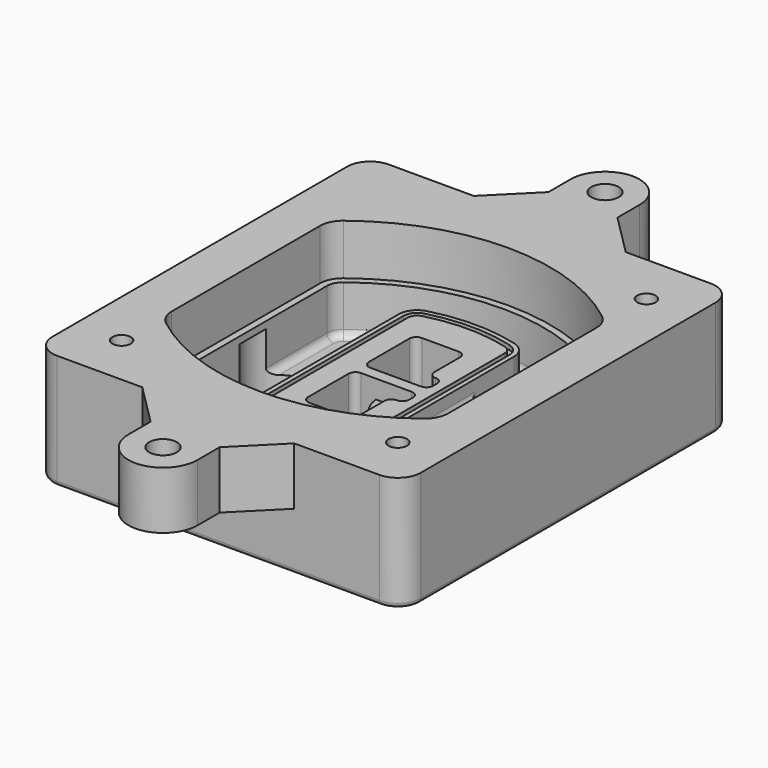
from build123d import *

# Parameters (mm, degrees)
F0_R      = 4
F1_DEPTH  = 25
F2_DEPTH  = 3
F3_DEPTH  = 18
F5_DEPTH  = 21
F6_DEPTH  = 2
F8_DEPTH  = 20
F9_DEPTH  = 16
F10_DEPTH = 25
F7_R      = 6
F7_R_2    = 4
F11_DEPTH = 6
F12_R     = 3
F13_R     = 2
F14_R     = 4
F14_R_2   = 6
F15_DEPTH = 25


with BuildPart() as f1:
    # F0 (on Top) → F1 (new body)
    with BuildSketch(Plane.XY):
        with BuildLine():
            ThreePointArc((-80, -80), (-77.0710678119, -87.0710678119), (-70, -90))
            Line((-70, -90), (70, -90))
            ThreePointArc((70, -90), (77.0710678119, -87.0710678119), (80, -80))
            Line((80, -80), (80, 80))
            ThreePointArc((80, 80), (77.0710678119, 87.0710678119), (70, 90))
            Line((70, 90), (-70, 90))
            ThreePointArc((-70, 90), (-77.0710678119, 87.0710678119), (-80, 80))
            Line((-80, 80), (-80, -80))
        make_face()
        with Locations((-60, -67.5)):
            Circle(F0_R, mode=Mode.SUBTRACT)
        with Locations((60, -67.5)):
            Circle(F0_R, mode=Mode.SUBTRACT)
        with Locations((-60, 67.5)):
            Circle(F0_R, mode=Mode.SUBTRACT)
        with BuildLine():
            ThreePointArc((-64, 40.2934422872), (-62.5820384798, 46.4328484224), (-58.6153846154, 51.3286200352))
            ThreePointArc((-58.6153846154, 51.3286200352), (0, 71.5), (58.6153846154, 51.3286200352))
            ThreePointArc((58.6153846154, 51.3286200352), (62.5820384798, 46.4328484224), (64, 40.2934422872))
            Line((64, 40.2934422872), (64, -40.2934422872))
            ThreePointArc((64, -40.2934422872), (62.5820384798, -46.4328484224), (58.6153846154, -51.3286200352))
            ThreePointArc((58.6153846154, -51.3286200352), (0, -71.5), (-58.6153846154, -51.3286200352))
            ThreePointArc((-58.6153846154, -51.3286200352), (-62.5820384798, -46.4328484224), (-64, -40.2934422872))
            Line((-64, -40.2934422872), (-64, 40.2934422872))
        make_face(mode=Mode.SUBTRACT)
        with Locations((60, 67.5)):
            Circle(F0_R, mode=Mode.SUBTRACT)
        with BuildLine():
            ThreePointArc((58.6153846154, 51.3286200352), (0, 71.5), (-58.6153846154, 51.3286200352))
            ThreePointArc((-58.6153846154, 51.3286200352), (-62.5820384798, 46.4328484224), (-64, 40.2934422872))
            Line((-64, 40.2934422872), (-64, -40.2934422872))
            ThreePointArc((-64, -40.2934422872), (-62.5820384798, -46.4328484224), (-58.6153846154, -51.3286200352))
            ThreePointArc((-58.6153846154, -51.3286200352), (0, -71.5), (58.6153846154, -51.3286200352))
            ThreePointArc((58.6153846154, -51.3286200352), (62.5820384798, -46.4328484224), (64, -40.2934422872))
            Line((64, -40.2934422872), (64, 40.2934422872))
            ThreePointArc((64, 40.2934422872), (62.5820384798, 46.4328484224), (58.6153846154, 51.3286200352))
        make_face()
        with BuildLine():
            Line((-60, -40.2934422872), (-60, 40.2934422872))
            ThreePointArc((-60, 40.2934422872), (-58.9871703427, 44.6787323838), (-56.1538461538, 48.1757121072))
            ThreePointArc((-56.1538461538, 48.1757121072), (0, 67.5), (56.1538461538, 48.1757121072))
            ThreePointArc((56.1538461538, 48.1757121072), (58.9871703427, 44.6787323838), (60, 40.2934422872))
            Line((60, 40.2934422872), (60, -40.2934422872))
            ThreePointArc((60, -40.2934422872), (58.9871703427, -44.6787323838), (56.1538461538, -48.1757121072))
            ThreePointArc((56.1538461538, -48.1757121072), (0, -67.5), (-56.1538461538, -48.1757121072))
            ThreePointArc((-56.1538461538, -48.1757121072), (-58.9871703427, -44.6787323838), (-60, -40.2934422872))
        make_face(mode=Mode.SUBTRACT)
        with BuildLine():
            ThreePointArc((-56.1538461538, 48.1757121072), (-58.9871703427, 44.6787323838), (-60, 40.2934422872))
            Line((-60, 40.2934422872), (-60, -40.2934422872))
            ThreePointArc((-60, -40.2934422872), (-58.9871703427, -44.6787323838), (-56.1538461538, -48.1757121072))
            ThreePointArc((-56.1538461538, -48.1757121072), (0, -67.5), (56.1538461538, -48.1757121072))
            ThreePointArc((56.1538461538, -48.1757121072), (58.9871703427, -44.6787323838), (60, -40.2934422872))
            Line((60, -40.2934422872), (60, 40.2934422872))
            ThreePointArc((60, 40.2934422872), (58.9871703427, 44.6787323838), (56.1538461538, 48.1757121072))
            ThreePointArc((56.1538461538, 48.1757121072), (0, 67.5), (-56.1538461538, 48.1757121072))
        make_face()
        with BuildLine():
            ThreePointArc((54.3076923077, 45.8110311612), (56.2910192399, 43.3631453548), (57, 40.2934422872))
            Line((57, 40.2934422872), (57, -40.2934422872))
            ThreePointArc((57, -40.2934422872), (56.2910192399, -43.3631453548), (54.3076923077, -45.8110311612))
            ThreePointArc((54.3076923077, -45.8110311612), (0, -64.5), (-54.3076923077, -45.8110311612))
            ThreePointArc((-54.3076923077, -45.8110311612), (-56.2910192399, -43.3631453548), (-57, -40.2934422872))
            Line((-57, -40.2934422872), (-57, 40.2934422872))
            ThreePointArc((-57, 40.2934422872), (-56.2910192399, 43.3631453548), (-54.3076923077, 45.8110311612))
            ThreePointArc((-54.3076923077, 45.8110311612), (0, 64.5), (54.3076923077, 45.8110311612))
        make_face(mode=Mode.SUBTRACT)
        with BuildLine():
            Line((57, -40.2934422872), (57, 40.2934422872))
            ThreePointArc((57, 40.2934422872), (56.2910192399, 43.3631453548), (54.3076923077, 45.8110311612))
            ThreePointArc((54.3076923077, 45.8110311612), (0, 64.5), (-54.3076923077, 45.8110311612))
            ThreePointArc((-54.3076923077, 45.8110311612), (-56.2910192399, 43.3631453548), (-57, 40.2934422872))
            Line((-57, 40.2934422872), (-57, -40.2934422872))
            ThreePointArc((-57, -40.2934422872), (-56.2910192399, -43.3631453548), (-54.3076923077, -45.8110311612))
            ThreePointArc((-54.3076923077, -45.8110311612), (0, -64.5), (54.3076923077, -45.8110311612))
            ThreePointArc((54.3076923077, -45.8110311612), (56.2910192399, -43.3631453548), (57, -40.2934422872))
        make_face()
    extrude(amount=-F1_DEPTH)

    # F0 (on Top) → F2 (join)
    with BuildSketch(Plane.XY):
        with BuildLine():
            ThreePointArc((-56.1538461538, 48.1757121072), (-58.9871703427, 44.6787323838), (-60, 40.2934422872))
            Line((-60, 40.2934422872), (-60, -40.2934422872))
            ThreePointArc((-60, -40.2934422872), (-58.9871703427, -44.6787323838), (-56.1538461538, -48.1757121072))
            ThreePointArc((-56.1538461538, -48.1757121072), (0, -67.5), (56.1538461538, -48.1757121072))
            ThreePointArc((56.1538461538, -48.1757121072), (58.9871703427, -44.6787323838), (60, -40.2934422872))
            Line((60, -40.2934422872), (60, 40.2934422872))
            ThreePointArc((60, 40.2934422872), (58.9871703427, 44.6787323838), (56.1538461538, 48.1757121072))
            ThreePointArc((56.1538461538, 48.1757121072), (0, 67.5), (-56.1538461538, 48.1757121072))
        make_face()
        with BuildLine():
            ThreePointArc((54.3076923077, 45.8110311612), (56.2910192399, 43.3631453548), (57, 40.2934422872))
            Line((57, 40.2934422872), (57, -40.2934422872))
            ThreePointArc((57, -40.2934422872), (56.2910192399, -43.3631453548), (54.3076923077, -45.8110311612))
            ThreePointArc((54.3076923077, -45.8110311612), (0, -64.5), (-54.3076923077, -45.8110311612))
            ThreePointArc((-54.3076923077, -45.8110311612), (-56.2910192399, -43.3631453548), (-57, -40.2934422872))
            Line((-57, -40.2934422872), (-57, 40.2934422872))
            ThreePointArc((-57, 40.2934422872), (-56.2910192399, 43.3631453548), (-54.3076923077, 45.8110311612))
            ThreePointArc((-54.3076923077, 45.8110311612), (0, 64.5), (54.3076923077, 45.8110311612))
        make_face(mode=Mode.SUBTRACT)
    extrude(amount=F2_DEPTH)

    # F0 (on Top) → F3 (cut)
    with BuildSketch(Plane.XY):
        with BuildLine():
            Line((57, -40.2934422872), (57, 40.2934422872))
            ThreePointArc((57, 40.2934422872), (56.2910192399, 43.3631453548), (54.3076923077, 45.8110311612))
            ThreePointArc((54.3076923077, 45.8110311612), (0, 64.5), (-54.3076923077, 45.8110311612))
            ThreePointArc((-54.3076923077, 45.8110311612), (-56.2910192399, 43.3631453548), (-57, 40.2934422872))
            Line((-57, 40.2934422872), (-57, -40.2934422872))
            ThreePointArc((-57, -40.2934422872), (-56.2910192399, -43.3631453548), (-54.3076923077, -45.8110311612))
            ThreePointArc((-54.3076923077, -45.8110311612), (0, -64.5), (54.3076923077, -45.8110311612))
            ThreePointArc((54.3076923077, -45.8110311612), (56.2910192399, -43.3631453548), (57, -40.2934422872))
        make_face()
    extrude(amount=-F3_DEPTH, mode=Mode.SUBTRACT)

    # F4 (on face) → F5 (join, through all)
    with BuildSketch(Plane.XY.offset(3)):
        with BuildLine():
            ThreePointArc((-25, -39.2465276821), (-23.3511545998, -44.1109737193), (-19.0842911877, -46.9702398883))
            ThreePointArc((-19.0842911877, -46.9702398883), (0, -49.5), (19.0842911877, -46.9702398883))
            ThreePointArc((19.0842911877, -46.9702398883), (23.3511545998, -44.1109737193), (25, -39.2465276821))
            Line((25, -39.2465276821), (25, 39.2465276821))
            ThreePointArc((25, 39.2465276821), (23.3511545998, 44.1109737193), (19.0842911877, 46.9702398883))
            ThreePointArc((19.0842911877, 46.9702398883), (0, 49.5), (-19.0842911877, 46.9702398883))
            ThreePointArc((-19.0842911877, 46.9702398883), (-23.3511545998, 44.1109737193), (-25, 39.2465276821))
            Line((-25, 39.2465276821), (-25, -39.2465276821))
        make_face()
        with BuildLine():
            ThreePointArc((18.5632183908, 45.0393118368), (21.7633659499, 42.89486221), (23, 39.2465276821))
            Line((23, 39.2465276821), (23, -39.2465276821))
            ThreePointArc((23, -39.2465276821), (21.7633659499, -42.89486221), (18.5632183908, -45.0393118368))
            ThreePointArc((18.5632183908, -45.0393118368), (0, -47.5), (-18.5632183908, -45.0393118368))
            ThreePointArc((-18.5632183908, -45.0393118368), (-21.7633659499, -42.89486221), (-23, -39.2465276821))
            Line((-23, -39.2465276821), (-23, 39.2465276821))
            ThreePointArc((-23, 39.2465276821), (-21.7633659499, 42.89486221), (-18.5632183908, 45.0393118368))
            ThreePointArc((-18.5632183908, 45.0393118368), (0, 47.5), (18.5632183908, 45.0393118368))
        make_face(mode=Mode.SUBTRACT)
        with BuildLine():
            Line((23, -39.2465276821), (23, 39.2465276821))
            ThreePointArc((23, 39.2465276821), (21.7633659499, 42.89486221), (18.5632183908, 45.0393118368))
            ThreePointArc((18.5632183908, 45.0393118368), (0, 47.5), (-18.5632183908, 45.0393118368))
            ThreePointArc((-18.5632183908, 45.0393118368), (-21.7633659499, 42.89486221), (-23, 39.2465276821))
            Line((-23, 39.2465276821), (-23, -39.2465276821))
            ThreePointArc((-23, -39.2465276821), (-21.7633659499, -42.89486221), (-18.5632183908, -45.0393118368))
            ThreePointArc((-18.5632183908, -45.0393118368), (0, -47.5), (18.5632183908, -45.0393118368))
            ThreePointArc((18.5632183908, -45.0393118368), (21.7633659499, -42.89486221), (23, -39.2465276821))
        make_face()
        with BuildLine():
            ThreePointArc((18.0421455939, 43.1083837852), (20.1755772999, 41.6787507007), (21, 39.2465276821))
            Line((21, 39.2465276821), (21, -39.2465276821))
            ThreePointArc((21, -39.2465276821), (20.1755772999, -41.6787507007), (18.0421455939, -43.1083837852))
            ThreePointArc((18.0421455939, -43.1083837852), (0, -45.5), (-18.0421455939, -43.1083837852))
            ThreePointArc((-18.0421455939, -43.1083837852), (-20.1755772999, -41.6787507007), (-21, -39.2465276821))
            Line((-21, -39.2465276821), (-21, 39.2465276821))
            ThreePointArc((-21, 39.2465276821), (-20.1755772999, 41.6787507007), (-18.0421455939, 43.1083837852))
            ThreePointArc((-18.0421455939, 43.1083837852), (0, 45.5), (18.0421455939, 43.1083837852))
        make_face(mode=Mode.SUBTRACT)
        with BuildLine():
            Line((21, -39.2465276821), (21, 39.2465276821))
            ThreePointArc((21, 39.2465276821), (20.1755772999, 41.6787507007), (18.0421455939, 43.1083837852))
            ThreePointArc((18.0421455939, 43.1083837852), (0, 45.5), (-18.0421455939, 43.1083837852))
            ThreePointArc((-18.0421455939, 43.1083837852), (-20.1755772999, 41.6787507007), (-21, 39.2465276821))
            Line((-21, 39.2465276821), (-21, -39.2465276821))
            ThreePointArc((-21, -39.2465276821), (-20.1755772999, -41.6787507007), (-18.0421455939, -43.1083837852))
            ThreePointArc((-18.0421455939, -43.1083837852), (0, -45.5), (18.0421455939, -43.1083837852))
            ThreePointArc((18.0421455939, -43.1083837852), (20.1755772999, -41.6787507007), (21, -39.2465276821))
        make_face()
        with BuildLine():
            Line((-8, -2.5), (14, -2.5))
            ThreePointArc((14, -2.5), (16.1213203436, -3.3786796564), (17, -5.5))
            Line((17, -5.5), (17, -7.5))
            ThreePointArc((17, -7.5), (16.1213203436, -9.6213203436), (14, -10.5))
            ThreePointArc((14, -10.5), (11.8786796564, -11.3786796564), (11, -13.5))
            Line((11, -13.5), (11, -27.5))
            ThreePointArc((11, -27.5), (10.1213203436, -29.6213203436), (8, -30.5))
            Line((8, -30.5), (-8, -30.5))
            ThreePointArc((-8, -30.5), (-10.1213203436, -29.6213203436), (-11, -27.5))
            Line((-11, -27.5), (-11, -5.5))
            ThreePointArc((-11, -5.5), (-10.1213203436, -3.3786796564), (-8, -2.5))
        make_face(mode=Mode.SUBTRACT)
        with BuildLine():
            ThreePointArc((-8, 2.5), (-10.1213203436, 3.3786796564), (-11, 5.5))
            Line((-11, 5.5), (-11, 27.5))
            ThreePointArc((-11, 27.5), (-10.1213203436, 29.6213203436), (-8, 30.5))
            Line((-8, 30.5), (8, 30.5))
            ThreePointArc((8, 30.5), (10.1213203436, 29.6213203436), (11, 27.5))
            Line((11, 27.5), (11, 13.5))
            ThreePointArc((11, 13.5), (11.8786796564, 11.3786796564), (14, 10.5))
            ThreePointArc((14, 10.5), (16.1213203436, 9.6213203436), (17, 7.5))
            Line((17, 7.5), (17, 5.5))
            ThreePointArc((17, 5.5), (16.1213203436, 3.3786796564), (14, 2.5))
            Line((14, 2.5), (-8, 2.5))
        make_face(mode=Mode.SUBTRACT)
    extrude(amount=-F5_DEPTH)

    # F4 (on face) → F6 (cut)
    with BuildSketch(Plane.XY.offset(3)):
        with BuildLine():
            Line((23, -39.2465276821), (23, 39.2465276821))
            ThreePointArc((23, 39.2465276821), (21.7633659499, 42.89486221), (18.5632183908, 45.0393118368))
            ThreePointArc((18.5632183908, 45.0393118368), (0, 47.5), (-18.5632183908, 45.0393118368))
            ThreePointArc((-18.5632183908, 45.0393118368), (-21.7633659499, 42.89486221), (-23, 39.2465276821))
            Line((-23, 39.2465276821), (-23, -39.2465276821))
            ThreePointArc((-23, -39.2465276821), (-21.7633659499, -42.89486221), (-18.5632183908, -45.0393118368))
            ThreePointArc((-18.5632183908, -45.0393118368), (0, -47.5), (18.5632183908, -45.0393118368))
            ThreePointArc((18.5632183908, -45.0393118368), (21.7633659499, -42.89486221), (23, -39.2465276821))
        make_face()
        with BuildLine():
            ThreePointArc((18.0421455939, 43.1083837852), (20.1755772999, 41.6787507007), (21, 39.2465276821))
            Line((21, 39.2465276821), (21, -39.2465276821))
            ThreePointArc((21, -39.2465276821), (20.1755772999, -41.6787507007), (18.0421455939, -43.1083837852))
            ThreePointArc((18.0421455939, -43.1083837852), (0, -45.5), (-18.0421455939, -43.1083837852))
            ThreePointArc((-18.0421455939, -43.1083837852), (-20.1755772999, -41.6787507007), (-21, -39.2465276821))
            Line((-21, -39.2465276821), (-21, 39.2465276821))
            ThreePointArc((-21, 39.2465276821), (-20.1755772999, 41.6787507007), (-18.0421455939, 43.1083837852))
            ThreePointArc((-18.0421455939, 43.1083837852), (0, 45.5), (18.0421455939, 43.1083837852))
        make_face(mode=Mode.SUBTRACT)
    extrude(amount=-F6_DEPTH, mode=Mode.SUBTRACT)

    # F7 (on face) → F8 (join)
    with BuildSketch(Plane(origin=(0, 0, -25), x_dir=(1, 0, 0), z_dir=(0, 0, -1))):
        with BuildLine():
            ThreePointArc((3.28842436, 0), (16.7567035675, 13.4682792075), (30.224982775, 0))
            Line((30.224982775, 0), (35.224982775, 0))
            ThreePointArc((35.224982775, 0), (16.7567035675, 18.4682792075), (-1.71157564, 0))
            Line((-1.71157564, 0), (3.28842436, 0))
        make_face()
        with BuildLine():
            Line((3.28842436, 0), (30.224982775, 0))
            ThreePointArc((30.224982775, 0), (16.7567035675, 13.4682792075), (3.28842436, 0))
        make_face()
        with BuildLine():
            ThreePointArc((3.28842436, 0), (16.7567035675, -13.4682792075), (30.224982775, 0))
            Line((30.224982775, 0), (3.28842436, 0))
        make_face()
        with BuildLine():
            Line((35.224982775, 0), (30.224982775, 0))
            ThreePointArc((30.224982775, 0), (16.7567035675, -13.4682792075), (3.28842436, 0))
            Line((3.28842436, 0), (-1.71157564, 0))
            ThreePointArc((-1.71157564, 0), (16.7567035675, -18.4682792075), (35.224982775, 0))
        make_face()
    extrude(amount=-F8_DEPTH)

    # F7 (on face) → F9 (cut)
    with BuildSketch(Plane(origin=(0, 0, -25), x_dir=(1, 0, 0), z_dir=(0, 0, -1))):
        with BuildLine():
            Line((3.28842436, 0), (30.224982775, 0))
            ThreePointArc((30.224982775, 0), (16.7567035675, 13.4682792075), (3.28842436, 0))
        make_face()
        with BuildLine():
            ThreePointArc((3.28842436, 0), (16.7567035675, -13.4682792075), (30.224982775, 0))
            Line((30.224982775, 0), (3.28842436, 0))
        make_face()
    extrude(amount=-F9_DEPTH, mode=Mode.SUBTRACT)

    # F7 (on face) → F10 (cut)
    with BuildSketch(Plane(origin=(0, 0, -25), x_dir=(1, 0, 0), z_dir=(0, 0, -1))):
        with BuildLine():
            Line((-59.0318229325, 0), (-32.0952645175, 0))
            ThreePointArc((-32.0952645175, 0), (-45.563543725, 13.4682792075), (-59.0318229325, 0))
        make_face()
        with BuildLine():
            ThreePointArc((-59.0318229325, 0), (-45.563543725, -13.4682792075), (-32.0952645175, 0))
            Line((-32.0952645175, 0), (-59.0318229325, 0))
        make_face()
    extrude(amount=-F10_DEPTH, mode=Mode.SUBTRACT)

    # F7 (on face) → F11 (cut)
    with BuildSketch(Plane(origin=(0, 0, -25), x_dir=(1, 0, 0), z_dir=(0, 0, -1))):
        with Locations((60, -67.5)):
            Circle(F7_R)
        with Locations((60, -67.5)):
            Circle(F7_R_2, mode=Mode.SUBTRACT)
        with Locations((60, -67.5)):
            Circle(F7_R)
        with Locations((60, -67.5)):
            Circle(F7_R_2, mode=Mode.SUBTRACT)
        with Locations((-60, -67.5)):
            Circle(F7_R)
        with Locations((-60, -67.5)):
            Circle(F7_R_2, mode=Mode.SUBTRACT)
        with Locations((-60, -67.5)):
            Circle(F7_R)
        with Locations((-60, -67.5)):
            Circle(F7_R_2, mode=Mode.SUBTRACT)
        with Locations((-60, 67.5)):
            Circle(F7_R)
        with Locations((-60, 67.5)):
            Circle(F7_R_2, mode=Mode.SUBTRACT)
        with Locations((-60, 67.5)):
            Circle(F7_R)
        with Locations((-60, 67.5)):
            Circle(F7_R_2, mode=Mode.SUBTRACT)
        with Locations((60, 67.5)):
            Circle(F7_R)
        with Locations((60, 67.5)):
            Circle(F7_R_2, mode=Mode.SUBTRACT)
        with Locations((60, 67.5)):
            Circle(F7_R)
        with Locations((60, 67.5)):
            Circle(F7_R_2, mode=Mode.SUBTRACT)
    extrude(amount=-F11_DEPTH, mode=Mode.SUBTRACT)

    # F12
    f12_edges = [f1.edges().sort_by_distance(p)[0] for p in [
        (-57, -23.703476, -18),
        (-57, 23.703476, -18),
        (25, 0, -5),
        (25, 16.526506, -11.5),
        (25, -16.526506, -11.5),
        (25, -27.886517, -18),
        (35.224983, 0, -18),
    ]]
    fillet(f12_edges, radius=F12_R)

    # F13
    f13_edges = [f1.edges().sort_by_distance(p)[0] for p in [
        (0, -90, -25),
    ]]
    fillet(f13_edges, radius=F13_R)

    # F14 (on face) → F15 (join)
    with BuildSketch(Plane.XY):
        with BuildLine():
            Line((-33, 90), (-70, 90))
            ThreePointArc((-70, 90), (-77.0710678119, 87.0710678119), (-80, 80))
            Line((-80, 80), (-80, -80))
            ThreePointArc((-80, -80), (-77.0710678119, -87.0710678119), (-70, -90))
            Line((-70, -90), (-33, -90))
            Line((-33, -90), (33, -90))
            Line((33, -90), (70, -90))
            ThreePointArc((70, -90), (77.0710678119, -87.0710678119), (80, -80))
            Line((80, -80), (80, 80))
            ThreePointArc((80, 80), (77.0710678119, 87.0710678119), (70, 90))
            Line((70, 90), (33, 90))
            Line((33, 90), (-33, 90))
        make_face()
        with Locations((-60, -67.5)):
            Circle(F14_R, mode=Mode.SUBTRACT)
        with Locations((60, -67.5)):
            Circle(F14_R, mode=Mode.SUBTRACT)
        with BuildLine():
            ThreePointArc((-56.1538461538, 48.1757121072), (0, 67.5), (56.1538461538, 48.1757121072))
            ThreePointArc((56.1538461538, 48.1757121072), (58.9871703427, 44.6787323838), (60, 40.2934422872))
            Line((60, 40.2934422872), (60, -40.2934422872))
            ThreePointArc((60, -40.2934422872), (58.9871703427, -44.6787323838), (56.1538461538, -48.1757121072))
            ThreePointArc((56.1538461538, -48.1757121072), (0, -67.5), (-56.1538461538, -48.1757121072))
            ThreePointArc((-56.1538461538, -48.1757121072), (-58.9871703427, -44.6787323838), (-60, -40.2934422872))
            Line((-60, -40.2934422872), (-60, 40.2934422872))
            ThreePointArc((-60, 40.2934422872), (-58.9871703427, 44.6787323838), (-56.1538461538, 48.1757121072))
        make_face(mode=Mode.SUBTRACT)
        with Locations((60, 67.5)):
            Circle(F14_R, mode=Mode.SUBTRACT)
        with BuildLine():
            Line((-15, 108), (-33, 90))
            Line((-33, 90), (33, 90))
            Line((33, 90), (15, 108))
            Line((15, 108), (15, 120))
            ThreePointArc((15, 120), (0, 135), (-15, 120))
            Line((-15, 120), (-15, 108))
        make_face()
        with Locations((0, 120)):
            Circle(F14_R_2, mode=Mode.SUBTRACT)
        with BuildLine():
            Line((33, -90), (-33, -90))
            Line((-33, -90), (-15, -108))
            Line((-15, -108), (-15, -120))
            ThreePointArc((-15, -120), (0, -135), (15, -120))
            Line((15, -120), (15, -108))
            Line((15, -108), (33, -90))
        make_face()
        with Locations((0, -120)):
            Circle(F14_R_2, mode=Mode.SUBTRACT)
    extrude(amount=F15_DEPTH)


solid = f1.part
